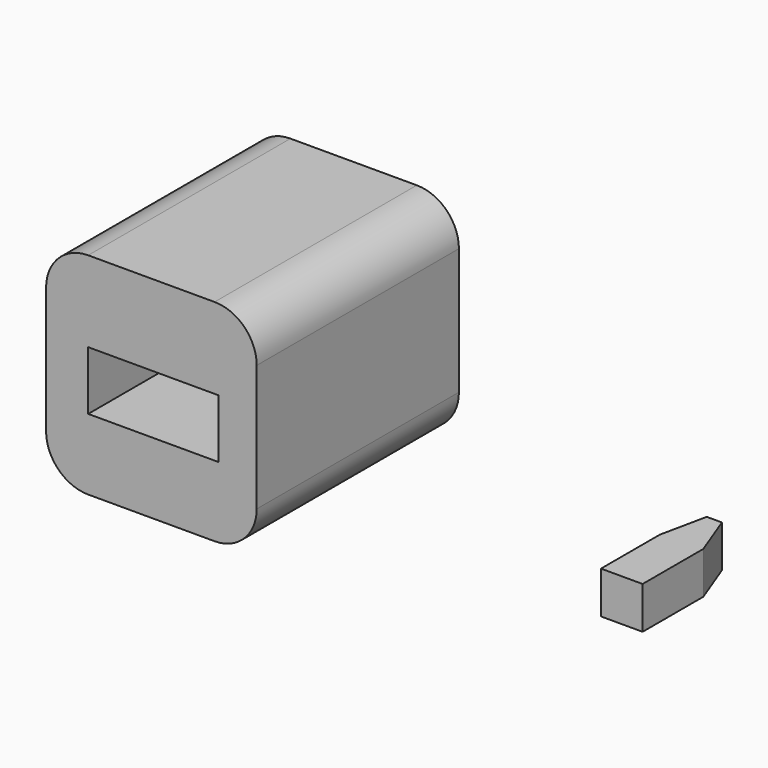
from build123d import *

# Parameters (mm, degrees)
F0_W     = 25.4
F0_H     = 30.48
F1_DEPTH = 25.4
F2_R     = 5.08
F3_R     = 5.08
F5_DEPTH = 5.08
F6_W     = 15.739095
F6_H     = 7.085757
F7_DEPTH = 12.7
F8_W     = 4.723836
F8_H     = 5.609558
F8_W_2   = 5.01908
F8_H_2   = 5.314318
F9_DEPTH = 0.0254


with BuildPart() as f1:
    # F0 (on Top) → F1 (new body)
    with BuildSketch(Plane.XY):
        with Locations((-30.262085, 21.61251)):
            Rectangle(F0_W, F0_H)
    extrude(amount=F1_DEPTH)

    # F2
    f2_edges = [f1.edges().sort_by_distance(p)[0] for p in [
        (-42.962085, 21.61251, 25.4),
    ]]
    fillet(f2_edges, radius=F2_R)

    # F3
    f3_edges = [f1.edges().sort_by_distance(p)[0] for p in [
        (-42.962085, 21.61251, 0),
        (-17.562085, 21.61251, 0),
        (-17.562085, 21.61251, 25.4),
    ]]
    fillet(f3_edges, radius=F3_R)

    # F6 (on face) → F7 (cut)
    with BuildSketch(Plane.XZ.offset(-6.37251)):
        with Locations((-30.012537, 12.104834)):
            Rectangle(F6_W, F6_H)
    extrude(amount=-F7_DEPTH, mode=Mode.SUBTRACT)

    # F8 (on face) → F9 (join)
    with BuildSketch(Plane(origin=(0, 36.85251, 0), x_dir=(-1, 0, 0), z_dir=(0, 1, 0))):
        with Locations((36.314504, 12.842934)):
            Rectangle(F8_W, F8_H)
        with Locations((23.471568, 12.695314)):
            Rectangle(F8_W_2, F8_H_2)
    extrude(amount=F9_DEPTH)


with BuildPart() as f5:
    # F4 (on Top) → F5 (new body)
    with BuildSketch(Plane.XY):
        Polygon((15.352475, 25.981108), (15.352475, 17.123912), (20.371549, 17.123912), (20.371549, 26.276346), (18.363918, 31.590667), (16.533433, 31.590667), align=None)
    extrude(amount=F5_DEPTH)


solid = Compound([f1.part, f5.part])
